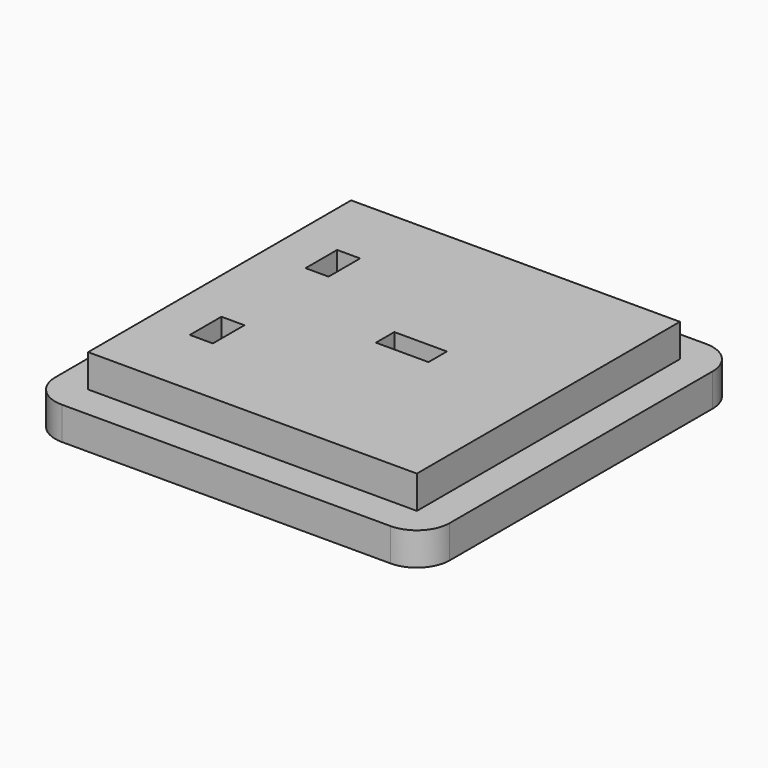
from build123d import *

# Parameters (mm, degrees)
F1_DEPTH = 5
F2_W     = 50
F2_H     = 50
F3_DEPTH = 5
F4_W     = 3.5
F4_H     = 6
F5_DEPTH = 25


with BuildPart() as f1:
    # F0 (on Top) → F1 (new body)
    with BuildSketch(Plane.XY):
        with BuildLine():
            Line((22.44609, 35.041678), (-27.55391, 35.041678))
            ThreePointArc((-27.55391, 35.041678), (-31.089444, 33.577212), (-32.55391, 30.041678))
            Line((-32.55391, 30.041678), (-32.55391, -19.958322))
            ThreePointArc((-32.55391, -19.958322), (-31.089444, -23.493856), (-27.55391, -24.958322))
            Line((-27.55391, -24.958322), (22.44609, -24.958322))
            ThreePointArc((22.44609, -24.958322), (25.981624, -23.493856), (27.44609, -19.958322))
            Line((27.44609, -19.958322), (27.44609, 30.041678))
            ThreePointArc((27.44609, 30.041678), (25.981624, 33.577212), (22.44609, 35.041678))
        make_face()
    extrude(amount=F1_DEPTH)

    # F2 (on face) → F3 (join)
    with BuildSketch(Plane.XY.offset(5)):
        with Locations((-2.55391, 5.041678)):
            Rectangle(F2_W, F2_H)
    extrude(amount=F3_DEPTH)

    # F4 (on face) → F5 (cut)
    with BuildSketch(Plane(origin=(0, 0, 0), x_dir=(1, 0, 0), z_dir=(0, 0, -1))):
        Polygon((-2.38457, -5.041678), (-2.38457, -6.791678), (5.61543, -6.791678), (5.61543, -5.041678), (5.61543, -3.291678), (-2.38457, -3.291678), align=None)
        with Locations((-19.13457, 5.958322)):
            Rectangle(F4_W, F4_H)
        with Locations((-19.13457, -16.041678)):
            Rectangle(F4_W, F4_H)
    extrude(amount=-F5_DEPTH, mode=Mode.SUBTRACT)


solid = f1.part
